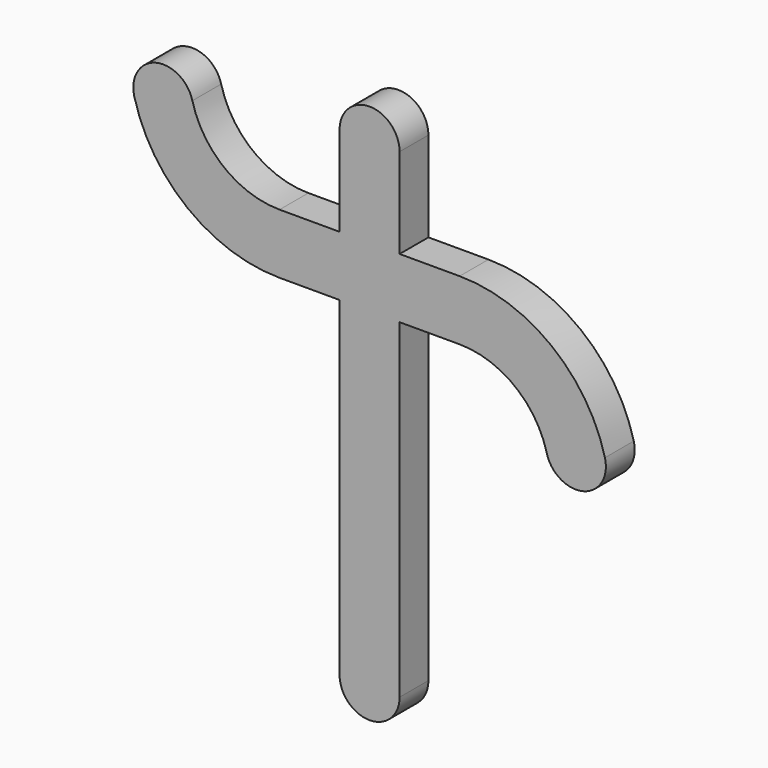
from build123d import *

# Parameters (mm, degrees)
F0_W     = 25
F0_H     = 12.5
F1_DEPTH = 15


with BuildPart() as f1:
    # F0 (on Front) → F1 (new body)
    with BuildSketch(Plane.XZ):
        with BuildLine():
            Line((12.5, -100), (-12.5, -100))
            ThreePointArc((-12.5, -100), (0, -112.5), (12.5, -100))
        make_face()
        with BuildLine():
            ThreePointArc((12.5, -100), (0, -87.5), (-12.5, -100))
            Line((-12.5, -100), (12.5, -100))
        make_face()
        with BuildLine():
            Line((12.5, 37.5), (-12.5, 37.5))
            Line((-12.5, 37.5), (-12.5, -100))
            ThreePointArc((-12.5, -100), (0, -87.5), (12.5, -100))
            Line((12.5, -100), (12.5, 37.5))
        make_face()
        with Locations((0, 56.25)):
            Rectangle(F0_W, F0_H)
        with Locations((0, 43.75)):
            Rectangle(F0_W, F0_H)
        with BuildLine():
            Line((-12.5, 50), (-12.5, 62.5))
            Line((-12.5, 62.5), (-37.5, 62.5))
            ThreePointArc((-37.5, 62.5), (-60.4639663386, 70.3536469359), (-73.8092188707, 90.625))
            ThreePointArc((-73.8092188707, 90.625), (-89.0372918276, 99.6030729569), (-98.0153647845, 84.375))
            ThreePointArc((-98.0153647845, 84.375), (-75.773277231, 50.5894115599), (-37.5, 37.5))
            Line((-37.5, 37.5), (-12.5, 37.5))
            Line((-12.5, 37.5), (-12.5, 50))
        make_face()
        with BuildLine():
            Line((37.5, 50), (12.5, 50))
            Line((12.5, 50), (12.5, 37.5))
            Line((12.5, 37.5), (37.5, 37.5))
            ThreePointArc((37.5, 37.5), (60.4639663386, 29.6463530641), (73.8092188707, 9.375))
            ThreePointArc((73.8092188707, 9.375), (89.0372918276, 0.3969270431), (98.0153647845, 15.625))
            ThreePointArc((98.0153647845, 15.625), (75.773277231, 49.4105884401), (37.5, 62.5))
            ThreePointArc((37.5, 62.5), (46.875, 58.2679728471), (49.9019592706, 48.4375))
            ThreePointArc((49.9019592706, 48.4375), (43.75, 49.6078370825), (37.5, 50))
        make_face()
        with BuildLine():
            Line((37.5, 62.5), (12.5, 62.5))
            Line((12.5, 62.5), (12.5, 50))
            Line((12.5, 50), (37.5, 50))
            ThreePointArc((37.5, 50), (43.75, 49.6078370825), (49.9019592706, 48.4375))
            ThreePointArc((49.9019592706, 48.4375), (46.875, 58.2679728471), (37.5, 62.5))
        make_face()
        with BuildLine():
            ThreePointArc((12.5, 100), (0, 87.5), (-12.5, 100))
            Line((-12.5, 100), (-12.5, 62.5))
            Line((-12.5, 62.5), (12.5, 62.5))
            Line((12.5, 62.5), (12.5, 100))
        make_face()
        with BuildLine():
            Line((12.5, 100), (-12.5, 100))
            ThreePointArc((-12.5, 100), (0, 87.5), (12.5, 100))
        make_face()
        with BuildLine():
            ThreePointArc((12.5, 100), (0, 112.5), (-12.5, 100))
            Line((-12.5, 100), (12.5, 100))
        make_face()
    extrude(amount=-F1_DEPTH)


solid = f1.part
